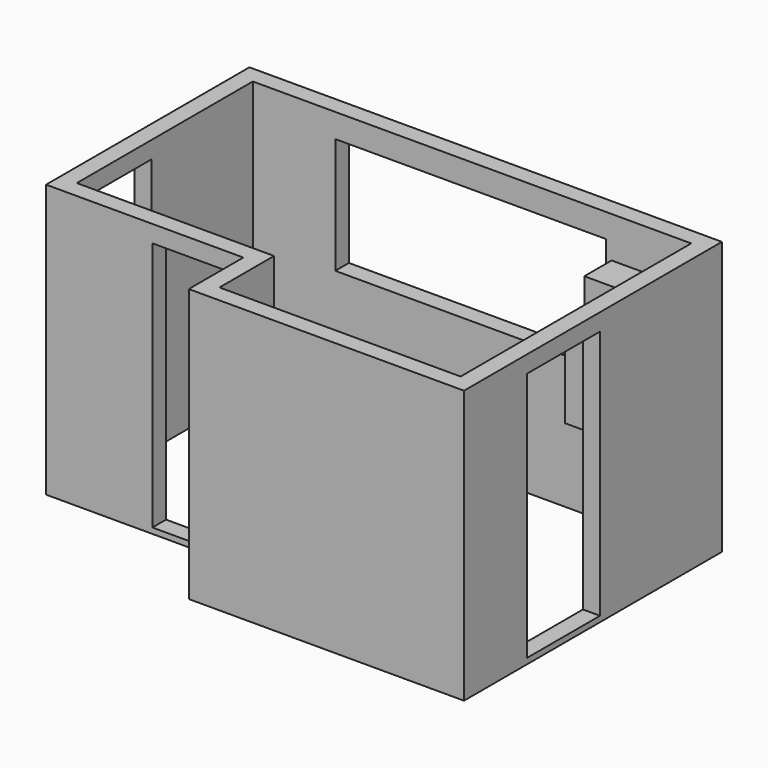
from build123d import *

# Parameters (mm, degrees)
F1_DEPTH  = 2400
F2_W      = 800
F2_H      = 2200
F3_DEPTH  = 150
F4_W      = 800
F4_H      = 2200
F5_DEPTH  = 150
F6_W      = 800
F6_H      = 2200
F7_DEPTH  = 150
F8_W      = 2380
F8_H      = 1020
F9_DEPTH  = 150
F11_W     = 600
F11_H     = 720
F11_W_2   = 400
F12_DEPTH = 300
F13_W     = 400
F13_H     = 720
F14_DEPTH = 300


with BuildPart() as f1:
    # F0 (on Top) → F1 (new body)
    with BuildSketch(Plane.XY):
        Polygon((2122.012167, -278.594359), (2122.012167, 1601.405657), (-2032.987833, 1601.405657), (-2032.987833, -633.594343), (-297.987833, -633.594343), (-297.987833, -1233.594343), (2122.012167, -1233.594343), align=None)
        Polygon((1972.012167, -1083.594343), (-147.987833, -1083.594343), (-147.987833, -483.594343), (-1882.987833, -483.594343), (-1882.987833, 1451.405657), (1972.012167, 1451.405657), (1972.012167, -538.594343), align=None, mode=Mode.SUBTRACT)
    extrude(amount=F1_DEPTH)

    # F2 (on face) → F3 (cut, through all)
    with BuildSketch(Plane.YZ.offset(2122.012167)):
        with Locations((-138.594343, 1150)):
            Rectangle(F2_W, F2_H)
    extrude(amount=-F3_DEPTH, mode=Mode.SUBTRACT)

    # F4 (on face) → F5 (cut, through all)
    with BuildSketch(Plane(origin=(0, -483.594343, 0), x_dir=(-1, 0, 0), z_dir=(0, 1, 0))):
        with Locations((697.987833, 1150)):
            Rectangle(F4_W, F4_H)
    extrude(amount=-F5_DEPTH, mode=Mode.SUBTRACT)

    # F6 (on face) → F7 (cut, through all)
    with BuildSketch(Plane.YZ.offset(-1882.987833)):
        with Locations((-63.594343, 1150)):
            Rectangle(F6_W, F6_H)
    extrude(amount=-F7_DEPTH, mode=Mode.SUBTRACT)

    # F8 (on face) → F9 (cut, through all)
    with BuildSketch(Plane.XZ.offset(-1451.405657)):
        with Locations((32.012167, 1680)):
            Rectangle(F8_W, F8_H)
    extrude(amount=-F9_DEPTH, mode=Mode.SUBTRACT)

    # F11 (on face) → F12 (join)
    with BuildSketch(Plane(origin=(1972.012167, 0, 0), x_dir=(0, -1, 0), z_dir=(-1, 0, 0))):
        with Locations((-1141.405657, 1680.342853)):
            Rectangle(F11_W, F11_H)
        with Locations((-641.405657, 1680.342853)):
            Rectangle(F11_W_2, F11_H)
    extrude(amount=F12_DEPTH)

    # F13 (on face) → F14 (join)
    with BuildSketch(Plane.XZ.offset(-1451.405657)):
        with Locations((1472.012167, 1680.342853)):
            Rectangle(F13_W, F13_H)
    extrude(amount=F14_DEPTH)


solid = f1.part
